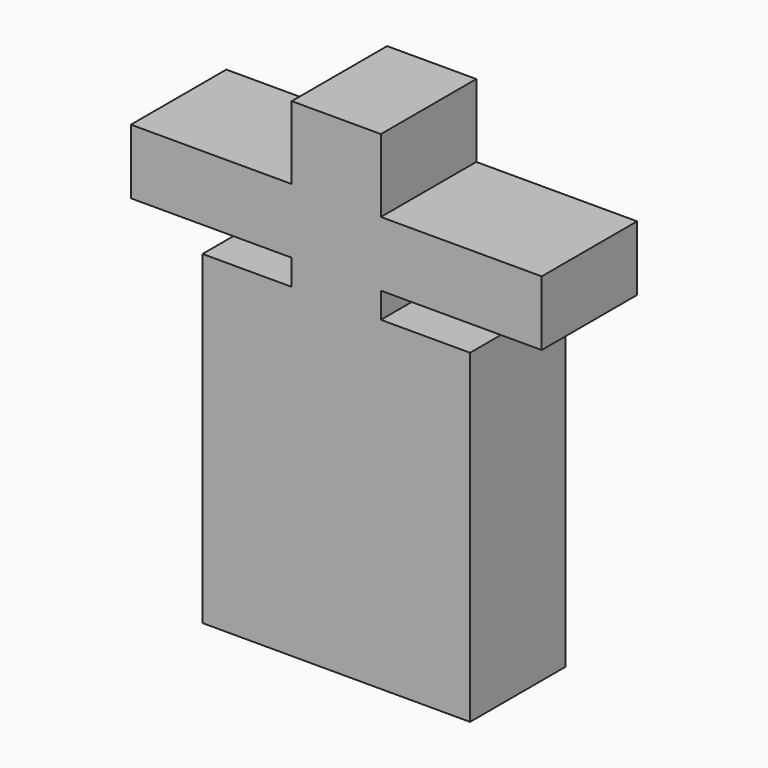
from build123d import *

# Parameters (mm, degrees)
F0_W     = 18.9951788634
F0_H     = 15.5427753925
F0_H_2   = 13.8158127666
F0_W_2   = 34.2488856986
F0_H_3   = 5.4687522352
F0_H_4   = 34.8273403943
F1_DEPTH = 25.4


with BuildPart() as f1:
    # F0 (on Front) → F1 (new body)
    with BuildSketch(Plane.XZ):
        with Locations((0, 61.6676062346)):
            Rectangle(F0_W, F0_H)
        with Locations((0, 46.988312155)):
            Rectangle(F0_W, F0_H_2)
        with Locations((-26.622032281, 46.988312155)):
            Rectangle(F0_W_2, F0_H_2)
        with Locations((26.622032281, 46.988312155)):
            Rectangle(F0_W_2, F0_H_2)
        with Locations((0, 37.3460296541)):
            Rectangle(F0_W, F0_H_3)
        with Locations((0, 17.1979833394)):
            Rectangle(F0_W, F0_H_4)
        Polygon((28.4927710891, -34.6116535366), (28.4927710891, 34.6116535366), (9.4975894317, 34.6116535366), (9.4975894317, -0.2156868577), (-9.4975894317, -0.2156868577), (-9.4975894317, 34.6116535366), (-28.4927710891, 34.6116535366), (-28.4927710891, -34.6116535366), align=None)
    extrude(amount=F1_DEPTH)


solid = f1.part
